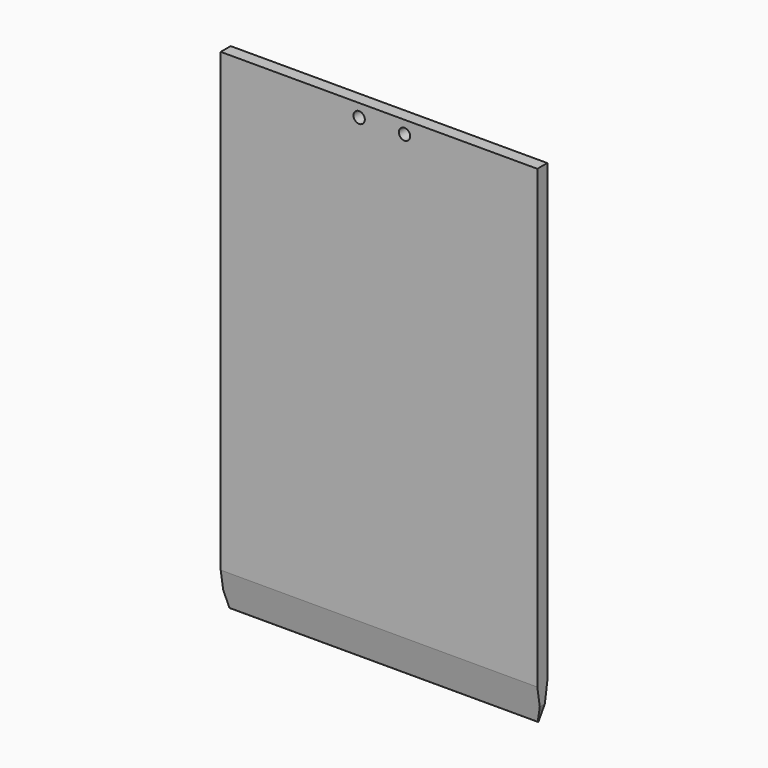
from build123d import *

# Parameters (mm, degrees)
F1_DEPTH = 279
F2_R     = 10
F3_DEPTH = 25


with BuildPart() as f1:
    # F0 (on Right) → F1 (new body, symmetric)
    with BuildSketch(Plane.YZ):
        with BuildLine():
            Line((11, -371.556), (11, 432.5))
            Line((11, 432.5), (-11, 432.5))
            Line((-11, 432.5), (-11, -371.556))
            Line((-11, -371.556), (-0.986406, -431.664328))
            ThreePointArc((-0.986406, -431.664328), (-0.082445, -430.503404), (1, -431.5))
            ThreePointArc((1, -431.5), (0.996596, -431.582445), (0.986406, -431.664328))
            Line((0.986406, -431.664328), (11, -371.556))
        make_face()
        with BuildLine():
            ThreePointArc((0, -432.5), (0.646402, -432.262997), (0.986406, -431.664328))
            ThreePointArc((0.986406, -431.664328), (0.996596, -431.582445), (1, -431.5))
            ThreePointArc((1, -431.5), (-0.082445, -430.503404), (-0.986406, -431.664328))
            ThreePointArc((-0.986406, -431.664328), (-0.646402, -432.262997), (0, -432.5))
        make_face()
    extrude(amount=F1_DEPTH, both=True)

    # F2 (on face) → F3 (cut)
    with BuildSketch(Plane(origin=(0, 11, 0), x_dir=(-1, 0, 0), z_dir=(0, 1, 0))):
        with Locations((-45, 410)):
            Circle(F2_R)
        with Locations((35, 410)):
            Circle(F2_R)
        Polygon((-271.603354, -432.5), (-279, -404.500191), (-279.103354, -432.5), align=None)
        Polygon((279.103354, -432.5), (279, -404.500191), (271.603354, -432.5), align=None)
    extrude(amount=-F3_DEPTH, mode=Mode.SUBTRACT)


solid = f1.part
